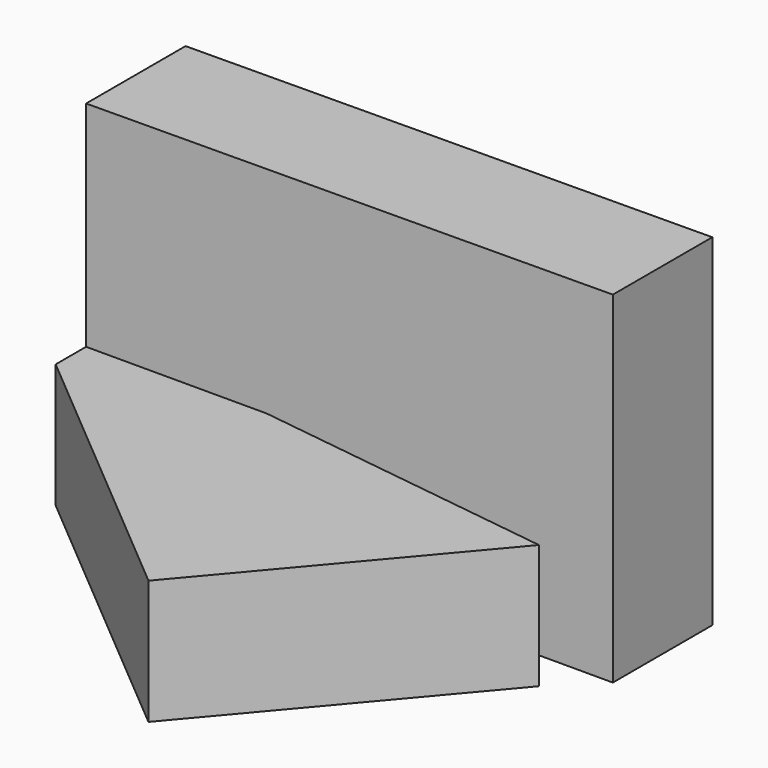
from build123d import *

# Parameters (mm, degrees)
F1_DEPTH = 12.7
F3_DEPTH = 12.7


with BuildPart() as f1:
    # F0 (on Front) → F1 (new body)
    with BuildSketch(Plane.XZ):
        Polygon((53.805172, 34.888081), (0, 34.577966), (0, 0), (53.805172, 0), align=None)
    extrude(amount=F1_DEPTH)

    # F2 (on Top) → F3 (join)
    with BuildSketch(Plane.XY):
        Polygon((49.594223, -16.872976), (0, -10.230556), (0, -16.580556), (29.124909, -41.143734), align=None)
    extrude(amount=F3_DEPTH)


solid = f1.part
